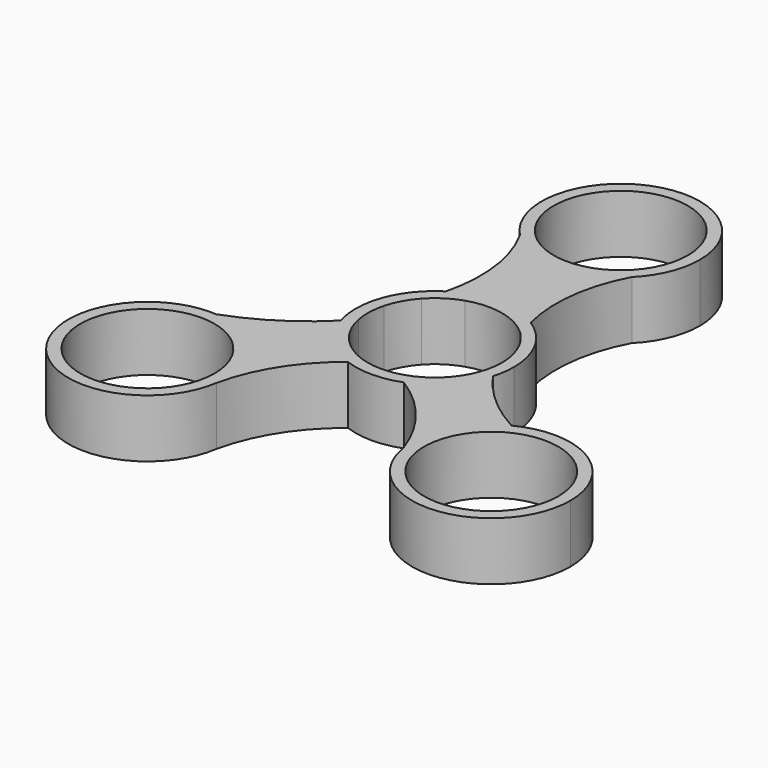
from build123d import *

# Parameters (mm, degrees)
F0_R     = 11.2
F1_DEPTH = 9.7


with BuildPart() as f1:
    # F0 (on Top) → F1 (new body)
    with BuildSketch(Plane.XY):
        with BuildLine():
            ThreePointArc((10.7997121538, 2.9675271514), (11.9439907052, 1.4385768038), (13.2, 0))
            ThreePointArc((13.2, 0), (11.569588838, 6.3548889934), (7.0811190729, 11.1399170857))
            ThreePointArc((7.0811190729, 11.1399170857), (7.6213974776, 9.3082070065), (8.2978828887, 7.5223094569))
            ThreePointArc((8.2978828887, 7.5223094569), (9.8166208323, 5.3920270247), (10.7997121538, 2.9675271514))
        make_face()
        with BuildLine():
            ThreePointArc((12.6597128294, -3.7378698582), (13.0642299687, -1.8883578384), (13.2, 0))
            ThreePointArc((13.2, 0), (11.9439907052, 1.4385768038), (10.7997121538, 2.9675271514))
            ThreePointArc((10.7997121538, 2.9675271514), (11.0994769274, 1.4972013687), (11.2, 0))
            ThreePointArc((11.2, 0), (11.1797630339, -0.6729773444), (11.1191252668, -1.343522721))
            ThreePointArc((11.1191252668, -1.343522721), (11.861944996, -2.5583738361), (12.6597128294, -3.7378698582))
        make_face()
        with BuildLine():
            ThreePointArc((7.4945763109, 8.3229397403), (7.255524149, 9.7266841779), (7.0811190729, 11.1399170857))
            ThreePointArc((7.0811190729, 11.1399170857), (2.3229386222, 12.9939969277), (-2.7829079526, 12.9033105569))
            ThreePointArc((-2.7829079526, 12.9033105569), (-3.1202534931, 11.7668491168), (-3.4928140977, 10.641440207))
            ThreePointArc((-3.4928140977, 10.641440207), (2.312441633, 10.9586775522), (7.4945763109, 8.3229397403))
        make_face()
        with BuildLine():
            ThreePointArc((-2.7829079526, 12.9033105569), (2.3229386222, 12.9939969277), (7.0811190729, 11.1399170857))
            ThreePointArc((7.0811190729, 11.1399170857), (6.4857475715, 20.4865237167), (9.3208734987, 29.4126417821))
            ThreePointArc((9.3208734987, 29.4126417821), (-0.0838144074, 25.5596354988), (-9.4388150451, 29.5317602575))
            ThreePointArc((-9.4388150451, 29.5317602575), (-6.5025484684, 20.5664657708), (-7.0661295843, 11.1494310482))
            ThreePointArc((-7.0661295843, 11.1494310482), (-5.0019904472, 12.2155675908), (-2.7829079526, 12.9033105569))
        make_face()
        with BuildLine():
            ThreePointArc((8.2978828887, 7.5223094569), (7.6213974776, 9.3082070065), (7.0811190729, 11.1399170857))
            ThreePointArc((7.0811190729, 11.1399170857), (7.255524149, 9.7266841779), (7.4945763109, 8.3229397403))
            ThreePointArc((7.4945763109, 8.3229397403), (7.9063704761, 7.9327993732), (8.2978828887, 7.5223094569))
        make_face()
        with BuildLine():
            ThreePointArc((23.2557426949, -13.0949401652), (17.417829946, -9.0277901137), (12.6597128294, -3.7378698582))
            ThreePointArc((12.6597128294, -3.7378698582), (12.0939465538, -5.2892775267), (11.338902988, -6.7579049289))
            ThreePointArc((11.338902988, -6.7579049289), (8.4850698318, -10.1115572465), (4.6869245883, -12.3398840312))
            ThreePointArc((4.6869245883, -12.3398840312), (11.7287918196, -18.6207932863), (16.2380497133, -26.9095994984))
            ThreePointArc((16.2380497133, -26.9095994984), (17.5066070915, -18.8642279298), (23.2557426949, -13.0949401652))
        make_face()
        with BuildLine():
            ThreePointArc((11.338902988, -6.7579049289), (12.0939465538, -5.2892775267), (12.6597128294, -3.7378698582))
            ThreePointArc((12.6597128294, -3.7378698582), (11.861944996, -2.5583738361), (11.1191252668, -1.343522721))
            ThreePointArc((11.1191252668, -1.343522721), (10.3448630317, -4.2922964548), (8.8040757601, -6.9230231843))
            ThreePointArc((8.8040757601, -6.9230231843), (10.0695256921, -6.8103184234), (11.338902988, -6.7579049289))
        make_face()
        with BuildLine():
            ThreePointArc((-3.4928140977, 10.641440207), (-3.1202534931, 11.7668491168), (-2.7829079526, 12.9033105569))
            ThreePointArc((-2.7829079526, 12.9033105569), (-5.0019904472, 12.2155675908), (-7.0661295843, 11.1494310482))
            ThreePointArc((-7.0661295843, 11.1494310482), (-7.6009366797, 9.3278062246), (-8.271259726, 7.5515735145))
            ThreePointArc((-8.271259726, 7.5515735145), (-6.0815439879, 9.4050424094), (-3.4928140977, 10.641440207))
        make_face()
        with BuildLine():
            ThreePointArc((-9.4388150451, 29.5317602575), (-0.0838144074, 25.5596354988), (9.3208734987, 29.4126417821))
            ThreePointArc((9.3208734987, 29.4126417821), (12.1917088667, 33.6995042954), (13.2, 38.7593694031))
            ThreePointArc((13.2, 38.7593694031), (-4.9823509212, 50.9829604998), (-9.4388150451, 29.5317602575))
        make_face()
        with Locations((0, 38.7593694031)):
            Circle(F0_R, mode=Mode.SUBTRACT)
        with BuildLine():
            ThreePointArc((4.6869245883, -12.3398840312), (8.4850698318, -10.1115572465), (11.338902988, -6.7579049289))
            ThreePointArc((11.338902988, -6.7579049289), (10.0695256921, -6.8103184234), (8.8040757601, -6.9230231843))
            ThreePointArc((8.8040757601, -6.9230231843), (5.8741972555, -9.5359219063), (2.2226209928, -10.9772471924))
            ThreePointArc((2.2226209928, -10.9772471924), (3.4721946655, -11.6270584722), (4.6869245883, -12.3398840312))
        make_face()
        with BuildLine():
            ThreePointArc((42.4751993984, -24.8425416648), (36.1593540856, -13.5798415337), (23.2557426949, -13.0949401652))
            ThreePointArc((23.2557426949, -13.0949401652), (17.5066070915, -18.8642279298), (16.2380497133, -26.9095994984))
            ThreePointArc((16.2380497133, -26.9095994984), (16.6811751612, -28.3481754864), (17.0450643135, -29.8088074457))
            ThreePointArc((17.0450643135, -29.8088074457), (31.8052405917, -37.797806678), (42.4751993984, -24.8425416648))
        make_face()
        with Locations((29.2751993984, -24.8425416648)):
            Circle(F0_R, mode=Mode.SUBTRACT)
        with BuildLine():
            ThreePointArc((-8.271259726, 7.5515735145), (-7.6009366797, 9.3278062246), (-7.0661295843, 11.1494310482))
            ThreePointArc((-7.0661295843, 11.1494310482), (-11.5653125879, 6.3626680523), (-13.2, 0))
            ThreePointArc((-13.2, 0), (-11.947646657, 1.4268660523), (-10.8061773678, 2.9438971952))
            ThreePointArc((-10.8061773678, 2.9438971952), (-9.8129924989, 5.3986274383), (-8.271259726, 7.5515735145))
        make_face()
        with BuildLine():
            ThreePointArc((-4.589179085, -12.3765679946), (0.0522012849, -13.1998967809), (4.6869245883, -12.3398840312))
            ThreePointArc((4.6869245883, -12.3398840312), (3.4721946655, -11.6270584722), (2.2226209928, -10.9772471924))
            ThreePointArc((2.2226209928, -10.9772471924), (-0.1479208812, -11.1990231455), (-2.5117781872, -10.9147134794))
            ThreePointArc((-2.5117781872, -10.9147134794), (-3.5678638565, -11.6209350826), (-4.589179085, -12.3765679946))
        make_face()
        with BuildLine():
            ThreePointArc((17.0450643135, -29.8088074457), (16.6811751612, -28.3481754864), (16.2380497133, -26.9095994984))
            ThreePointArc((16.2380497133, -26.9095994984), (16.5586640372, -28.3822773057), (17.0450643135, -29.8088074457))
        make_face()
        with BuildLine():
            ThreePointArc((-10.8061773678, 2.9438971952), (-11.947646657, 1.4268660523), (-13.2, 0))
            ThreePointArc((-13.2, 0), (-13.0554049975, -1.9484353598), (-12.6247878255, -3.8541837476))
            ThreePointArc((-12.6247878255, -3.8541837476), (-11.7965458081, -3.0060317688), (-10.9951085748, -2.1325073104))
            ThreePointArc((-10.9951085748, -2.1325073104), (-11.192251242, 0.4165478802), (-10.8061773678, 2.9438971952))
        make_face()
        with BuildLine():
            ThreePointArc((-7.5366184006, -8.2848888396), (-9.7631539879, -5.4882441826), (-10.9951085748, -2.1325073104))
            ThreePointArc((-10.9951085748, -2.1325073104), (-11.7965458081, -3.0060317688), (-12.6247878255, -3.8541837476))
            ThreePointArc((-12.6247878255, -3.8541837476), (-11.6907811636, -6.1290811535), (-10.3510105514, -8.1912502442))
            ThreePointArc((-10.3510105514, -8.1912502442), (-8.9426172679, -8.2020863754), (-7.5366184006, -8.2848888396))
        make_face()
        with BuildLine():
            ThreePointArc((-14.2702107489, -27.6635521839), (-10.7633961504, -19.1754458925), (-4.589179085, -12.3765679946))
            ThreePointArc((-4.589179085, -12.3765679946), (-7.7576760542, -10.6798156463), (-10.3510105514, -8.1912502442))
            ThreePointArc((-10.3510105514, -8.1912502442), (-11.6907811636, -6.1290811535), (-12.6247878255, -3.8541837476))
            ThreePointArc((-12.6247878255, -3.8541837476), (-19.0361183181, -8.9729874739), (-26.3951306605, -12.5995902391))
            ThreePointArc((-26.3951306605, -12.5995902391), (-17.6733855055, -16.7701576999), (-14.1331403732, -25.7662199438))
            ThreePointArc((-14.1331403732, -25.7662199438), (-14.1674525628, -26.7173584612), (-14.2702107489, -27.6635521839))
        make_face()
        with BuildLine():
            ThreePointArc((-10.3510105514, -8.1912502442), (-7.7576760542, -10.6798156463), (-4.589179085, -12.3765679946))
            ThreePointArc((-4.589179085, -12.3765679946), (-3.5678638565, -11.6209350826), (-2.5117781872, -10.9147134794))
            ThreePointArc((-2.5117781872, -10.9147134794), (-5.1934153411, -9.923126377), (-7.5366184006, -8.2848888396))
            ThreePointArc((-7.5366184006, -8.2848888396), (-8.9426172679, -8.2020863754), (-10.3510105514, -8.1912502442))
        make_face()
        with BuildLine():
            ThreePointArc((-34.3061189534, -14.5582955275), (-34.5587070595, -36.8129925975), (-14.2702107489, -27.6635521839))
            ThreePointArc((-14.2702107489, -27.6635521839), (-14.1674525628, -26.7173584612), (-14.1331403732, -25.7662199438))
            ThreePointArc((-14.1331403732, -25.7662199438), (-17.6733855055, -16.7701576999), (-26.3951306605, -12.5995902391))
            ThreePointArc((-26.3951306605, -12.5995902391), (-30.2980685136, -13.7912117857), (-34.3061189534, -14.5582955275))
        make_face()
        with Locations((-27.3331403732, -25.7662199438)):
            Circle(F0_R, mode=Mode.SUBTRACT)
        with BuildLine():
            ThreePointArc((-34.3061189534, -14.5582955275), (-30.2980685136, -13.7912117857), (-26.3951306605, -12.5995902391))
            ThreePointArc((-26.3951306605, -12.5995902391), (-30.5055753859, -12.9531150862), (-34.3061189534, -14.5582955275))
        make_face()
    extrude(amount=F1_DEPTH)


solid = f1.part
